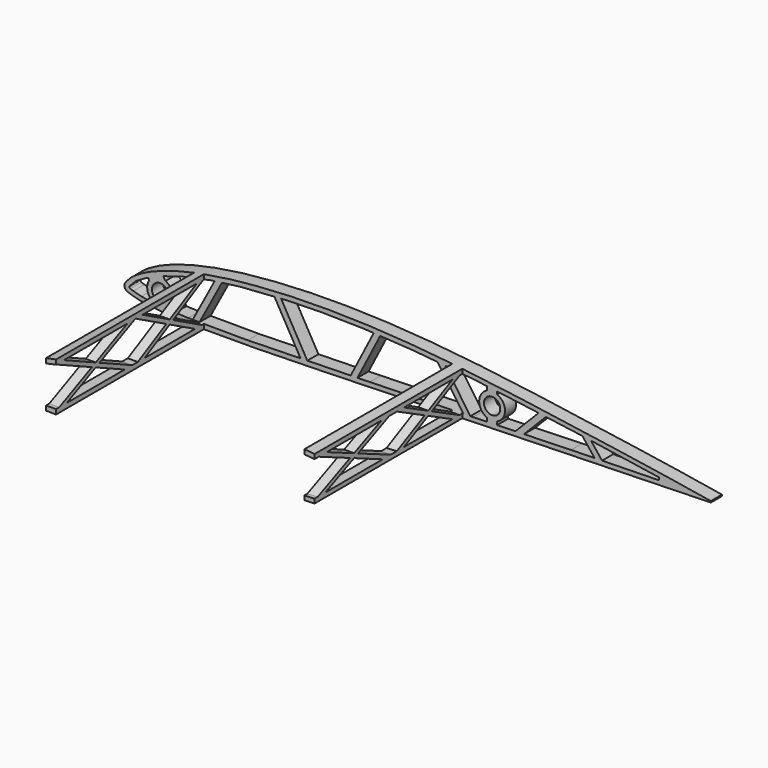
from build123d import *

# Parameters (mm, degrees)
PAD089_DEPTH    = 99.95
POCKET111_DEPTH = 99.95
SKETCH203_W     = 94.552856
SKETCH203_H     = 125.009666
POCKET112_DEPTH = 2.5
SKETCH205_W     = 55
SKETCH205_H     = 110
SKETCH205_W_2   = 125
SKETCH205_W_3   = 130
POCKET113_DEPTH = 50
SKETCH204_R     = 4.1
PAD090_DEPTH    = 7
PAD091_DEPTH    = 5
PAD092_DEPTH    = 5


with BuildPart() as part:
    # Sketch201 → Pad089 (new body)
    with BuildSketch(Plane.XZ):
        with BuildLine():
            add(Edge.make_bspline(
                [(299.999063, 0.026825), (299.662766, 0.037193), (298.339429, 0.190401), (295.439956, 0.589669), (290.775356, 1.337839), (284.500044, 2.393262), (276.735212, 3.66473), (267.577355, 5.083019), (257.136483, 6.653879), (245.549215, 8.381993), (232.975291, 10.222771), (219.590016, 12.153256), (205.573823, 14.115503), (191.111579, 16.055183), (176.381713, 17.897983), (161.544489, 19.553409), (146.739309, 20.940939), (132.087536, 21.99009), (117.705275, 22.664279), (103.703346, 22.961168), (90.192549, 22.858072), (77.284675, 22.375726), (65.094168, 21.544938), (53.730431, 20.369385), (43.29002, 18.857963), (33.852484, 17.043697), (25.485501, 14.967735), (18.252292, 12.67281), (12.179436, 10.224412), (7.338355, 7.689021), (3.623023, 5.152403), (1.3546, 2.748114), (-0.314638, 0.590402), (0.575789, -1.804065), (3.482069, -2.72942), (7.386052, -3.91761), (13.030922, -4.754284), (20.096342, -5.463024), (28.645402, -5.933379), (38.56853, -6.201185), (49.790194, -6.284208), (62.196701, -6.193111), (75.660953, -5.967607), (90.034637, -5.629522), (105.153445, -5.226063), (120.83724, -4.775199), (136.895942, -4.296045), (153.13493, -3.818601), (169.356828, -3.345106), (185.36574, -2.889379), (200.968742, -2.465331), (215.974941, -2.074889), (230.201502, -1.715375), (243.47905, -1.394255), (255.639348, -1.103787), (266.55871, -0.849968), (276.034544, -0.603524), (284.209012, -0.340437), (290.324953, -0.117215), (295.955653, 0.018504), (297.364702, 0.013759), (300.343856, 0.01512), (300.000055, 0.026794), (299.999063, 0.026825)],
                knots=[0, 0, 0, 0, 1.017748, 3.99659, 8.779341, 15.189917, 23.087031, 32.383824, 42.990765, 54.76218, 67.530065, 81.114584, 95.333435, 109.988542, 124.889458, 139.866624, 154.774633, 169.496697, 183.930349, 197.964304, 211.506735, 224.45797, 236.709214, 248.156653, 258.723012, 268.346769, 276.97692, 284.567784, 291.102108, 296.573756, 300.992679, 304.39163, 306.761357, 308.43213, 311.131254, 315.298227, 320.951765, 328.080828, 336.654655, 346.609821, 357.866231, 370.316475, 383.83025, 398.264023, 413.449345, 429.202773, 445.334827, 461.646891, 477.940787, 494.021253, 509.693044, 524.767168, 539.054704, 552.387642, 564.607107, 575.560217, 585.109622, 593.180747, 599.700326, 604.53767, 607.540683, 608.560842, 608.563842, 608.563842, 608.563842, 608.563842], degree=3))
        make_face()
    extrude(amount=PAD089_DEPTH)

    # Sketch202 (on Face3 of Pad089) → Pocket111 (cut)
    with BuildSketch(Plane.XZ.offset(99.95)):
        with BuildLine():
            Line((2.713263, 0.775372), (3.386703, 1.523026))
            Line((3.386703, 1.523026), (5.993214, 4.179621))
            Line((5.993214, 4.179621), (11.230826, 7.180706))
            Line((11.230826, 7.180706), (18.928726, 10.492708))
            Line((18.928726, 10.492708), (30.015602, 13.804502))
            Line((30.015602, 13.804502), (43.705284, 16.658491))
            Line((43.705284, 16.658491), (58.37534, 18.58366))
            Line((58.37534, 18.58366), (81.932846, 20.199753))
            Line((81.932846, 20.199753), (99.115959, 20.581533))
            Line((99.115959, 20.581533), (120.506348, 20.199753))
            Line((120.506348, 20.199753), (145.772324, 18.655943))
            Line((145.772324, 18.655943), (175.747543, 15.772772))
            Line((175.747543, 15.772772), (200.435547, 12.569891))
            Line((200.435547, 12.569891), (229.384109, 8.602522))
            Line((229.384109, 8.602522), (252.135086, 5.213018))
            Line((252.135086, 5.213018), (269.069916, 2.671427))
            Line((269.069916, 2.671427), (269.069916, 1.39956))
            Line((269.069916, 1.39956), (224.761032, 0.436598))
            Line((224.761032, 0.436598), (175.486649, -1.027315))
            Line((175.486649, -1.027315), (123.47789, -2.412929))
            Line((123.47789, -2.412929), (62.077515, -3.876549))
            Line((62.077515, -3.876549), (32.052879, -3.760909))
            Line((32.052879, -3.760909), (18.887957, -3.18288))
            Line((18.887957, -3.18288), (12.728564, -2.489715))
            Line((12.728564, -2.489715), (8.493419, -1.872198))
            Line((8.493419, -1.872198), (4.562357, -0.768246))
            Line((4.562357, -0.768246), (3.013953, -0.301296))
            ThreePointArc((2.713263, 0.775372), (2.567567, 0.15436), (3.013953, -0.301296))
        make_face()
    extrude(amount=-POCKET111_DEPTH, mode=Mode.SUBTRACT)

    # Sketch203 → Pocket112 (cut, symmetric)
    with BuildSketch(Plane.XY):
        with Locations((342.276428, -45.135685)):
            Rectangle(SKETCH203_W, SKETCH203_H)
    extrude(amount=POCKET112_DEPTH, both=True, mode=Mode.SUBTRACT)

    # Sketch205 → Pocket113 (cut, symmetric)
    with BuildSketch(Plane.XY):
        with Locations((7.5, -62)):
            Rectangle(SKETCH205_W, SKETCH205_H)
        with Locations((102.5, -62)):
            Rectangle(SKETCH205_W_2, SKETCH205_H)
        with Locations((235, -62)):
            Rectangle(SKETCH205_W_3, SKETCH205_H)
    extrude(amount=POCKET113_DEPTH, both=True, mode=Mode.SUBTRACT)

    # Sketch204 (on Face16 of Pocket113) → Pad090 (join)
    with BuildSketch(Plane.XZ.offset(7)):
        Polygon((45.883972, 17.721869), (33.929979, -4.654965), (37.331221, -4.654965), (49.864502, 18.806244), align=None)
        with BuildLine():
            ThreePointArc((12.49229, 6.45183), (11.877033, 0.818423), (15.915785, -3.156789))
            Line((15.915785, -3.156789), (16.615922, -4.582716))
            Line((16.615922, -4.582716), (26.093039, -4.582716))
            Line((23.927186, 0.331954), (26.093039, -4.582716))
            ThreePointArc((23.927186, 0.331954), (24.083233, 5.290038), (20.696327, 8.914374))
            Line((20.696327, 8.914374), (19.191151, 11.361285))
            Line((11.725203, 8.211095), (19.191151, 11.361285))
            Line((12.49229, 6.45183), (11.725203, 8.211095))
        make_face()
        with Locations((18, 3)):
            Circle(SKETCH204_R, mode=Mode.SUBTRACT)
        Polygon((74.837349, 20.968384), (89.206329, -4.249731), (92.659144, -4.249731), (78.184032, 21.154647), align=None)
        Polygon((113.371621, -3.617416), (125.992361, 20.986459), (129.33754, 20.934824), (116.743287, -3.617416), align=None)
        Polygon((156.489991, 19.012594), (171.223801, -2.187052), (175.064011, -2.455857), (160.385949, 18.663577), align=None)
        Polygon((195.991472, -1.145031), (209.190294, 12.320477), (213.439896, 12.370226), (200.19231, -1.145031), align=None)
        Polygon((229.837707, 9.194464), (237.095519, 0), (240.917549, 0), (234.226173, 8.476883), align=None)
        with BuildLine():
            ThreePointArc((182.5, 13), (178.5, 7), (182.5, 1))
            Line((182.5, 1), (182.5, -1.799935))
            Line((182.5, -1.799935), (187.5, -1.799935))
            Line((187.5, -1.799935), (187.5, 1))
            ThreePointArc((187.5, 1), (191.5, 7), (187.5, 13))
            Line((187.5, 15.534908), (187.5, 13))
            Line((182.5, 15.936711), (187.5, 15.534908))
            Line((182.5, 13), (182.5, 15.936711))
        make_face()
        with Locations((185, 7)):
            Circle(SKETCH204_R, mode=Mode.SUBTRACT)
    extrude(amount=-PAD090_DEPTH)

    # Sketch206 (on Face12 of Pad090) → Pad091 (join)
    with BuildSketch(Plane(origin=(35, 0, 0), x_dir=(0, 0, -1), z_dir=(-1, 0, 0))):
        Polygon((-17.098402, 50), (-16.000205, 50), (5.939144, 8.475523), (5.961339, 7.089303), (4.409559, 7.089303), (-17.122807, 47.843484), align=None)
        Polygon((-17.129333, 7.10705), (-17.129333, 9.145432), (4.558284, 50), (5.87403, 50.001778), (5.939742, 48.336863), (-15.947074, 7.10705), align=None)
        Polygon((-17.135797, 50), (-15.97758, 50.087739), (5.971195, 97.920066), (5.971195, 99.859802), (4.66077, 99.859802), (-17.135797, 52.359178), align=None)
        Polygon((-15.957584, 99.885406), (-17.033993, 99.885406), (-17.078244, 97.5311), (4.717648, 50), (5.827496, 50.157914), (5.827496, 52.377885), align=None)
    extrude(amount=-PAD091_DEPTH)

    # Sketch207 (on Face7 of Pad091) → Pad092 (join)
    with BuildSketch(Plane(origin=(170, 0, 0), x_dir=(0, 0, 1), z_dir=(1, 0, 0))):
        Polygon((-3.230705, 7.091972), (-2.057019, 7.091972), (18.437528, 47.77545), (18.437528, 50), (17.308382, 49.979477), (-3.230705, 9.207583), align=None)
        Polygon((17.122561, 7.079828), (18.495286, 7.079828), (18.495286, 8.806629), (-2.098574, 50), (-3.175621, 49.915909), (-3.175621, 47.681762), align=None)
        Polygon((-3.193453, 99.869281), (-2.030565, 99.869281), (18.427737, 53.149961), (18.502468, 50), (17.575653, 50.109833), (-3.193453, 97.538917), align=None)
        Polygon((-3.223656, 50), (-3.223656, 52.317749), (17.471001, 99.860643), (18.452137, 99.860643), (18.452137, 97.103538), (-2.059094, 49.982041), align=None)
    extrude(amount=-PAD092_DEPTH)


with BuildPart() as part_1:
    # Body040 placement: moved
    add(part.part.moved(Location((0, -500, 0))))


solid = part_1.part
